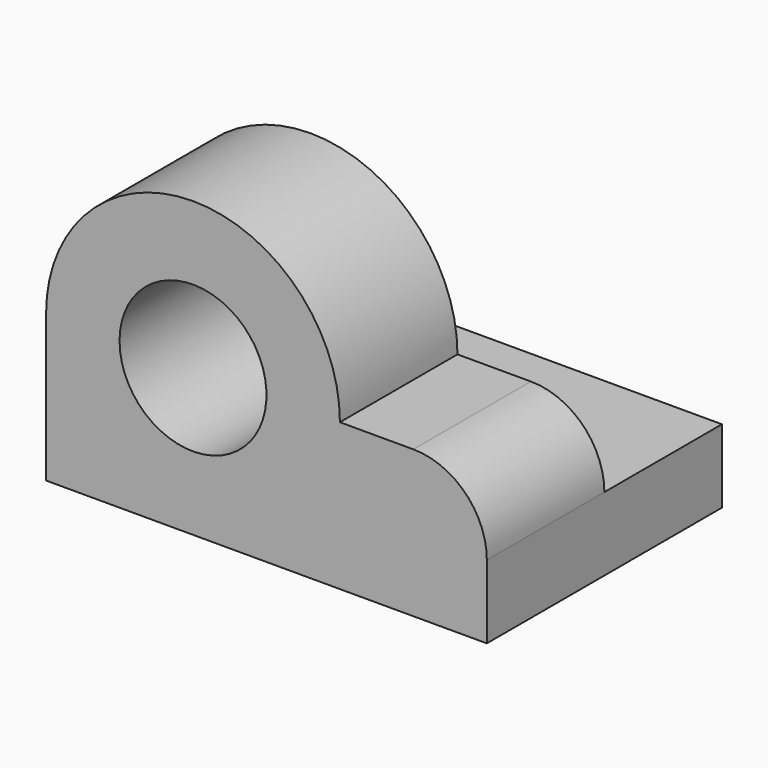
from build123d import *

# Parameters (mm, degrees)
F0_W     = 60
F0_H     = 40
F1_DEPTH = 10
F3_DEPTH = 20
F4_R     = 10
F5_DEPTH = 25


with BuildPart() as f1:
    # F0 (on Top) → F1 (new body)
    with BuildSketch(Plane.XY):
        with Locations((30, 20)):
            Rectangle(F0_W, F0_H)
    extrude(amount=F1_DEPTH)

    # F2 (on face) → F3 (join)
    with BuildSketch(Plane.XZ):
        with BuildLine():
            Line((50, 20), (40, 20))
            ThreePointArc((40, 20), (20, 40), (0, 20))
            Line((0, 20), (0, 10))
            Line((0, 10), (60, 10))
            ThreePointArc((60, 10), (57.071068, 17.071068), (50, 20))
        make_face()
    extrude(amount=-F3_DEPTH)

    # F4 (on face) → F5 (cut)
    with BuildSketch(Plane(origin=(0, 20, 0), x_dir=(-1, 0, 0), z_dir=(0, 1, 0))):
        with Locations((-20, 20)):
            Circle(F4_R)
    extrude(amount=-F5_DEPTH, mode=Mode.SUBTRACT)


solid = f1.part
